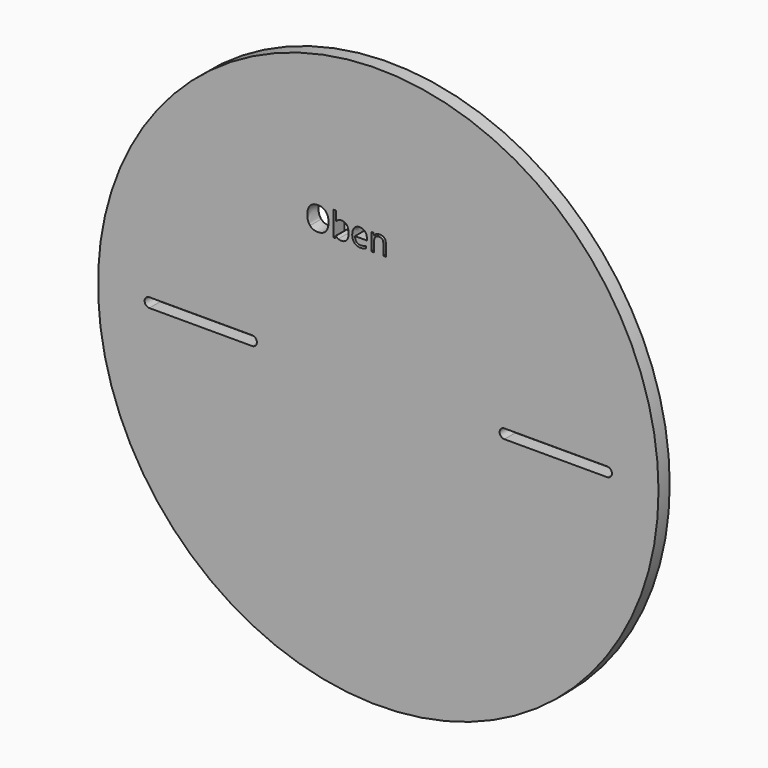
from build123d import *

# Parameters (mm, degrees)
F0_R     = 300.0001975894
F1_DEPTH = 15


with BuildPart() as f1:
    # F0 (on Front) → F1 (new body)
    with BuildSketch(Plane.XZ):
        Circle(F0_R)
        with BuildLine():
            ThreePointArc((-245.0001975894, -5.1), (-250.1001975894, 0), (-245.0001975894, 5.1))
            Line((-245.0001975894, 5.1), (-135, 5.1))
            ThreePointArc((-135, 5.1), (-129.9, 0), (-135, -5.1))
            Line((-135, -5.1), (-245.0001975894, -5.1))
        make_face(mode=Mode.SUBTRACT)
        with BuildLine():
            ThreePointArc((135.0291466713, -5.1012321273), (129.9, -0.0303787986), (134.9708533287, 5.0987678727))
            Line((134.9708533287, 5.0987678727), (245.0001975894, 5.0987678727))
            ThreePointArc((245.0001975894, 5.0987678727), (250.1001975894, -0.0012321273), (245.0001975894, -5.1012321273))
            Line((245.0001975894, -5.1012321273), (135.0291466713, -5.1012321273))
        make_face(mode=Mode.SUBTRACT)
        with BuildLine():
            add(Edge.make_bspline(
                [(-56.2059473305, 147.280047389), (-53.2054559961, 143.8888953384), (-53.2054559961, 137.9204677295)],
                knots=[0, 0, 0, 1, 1, 1], degree=2))
            add(Edge.make_bspline(
                [(-53.2054559961, 137.9204677295), (-53.2054559961, 131.9683176504), (-56.216799017, 128.5581751484)],
                knots=[0, 0, 0, 1, 1, 1], degree=2))
            add(Edge.make_bspline(
                [(-56.216799017, 128.5581751484), (-59.2281420379, 125.1480326464), (-64.5834493561, 125.1480326464)],
                knots=[0, 0, 0, 1, 1, 1], degree=2))
            add(Edge.make_bspline(
                [(-64.5834493561, 125.1480326464), (-70.0581252264, 125.1480326464), (-73.034200266, 128.4984908723)],
                knots=[0, 0, 0, 1, 1, 1], degree=2))
            add(Edge.make_bspline(
                [(-73.034200266, 128.4984908723), (-76.0102753055, 131.8489490982), (-76.0102753055, 137.9530227892)],
                knots=[0, 0, 0, 1, 1, 1], degree=2))
            add(Edge.make_bspline(
                [(-76.0102753055, 137.9530227892), (-76.0102753055, 144.0082638906), (-73.0260615011, 147.339731665)],
                knots=[0, 0, 0, 1, 1, 1], degree=2))
            add(Edge.make_bspline(
                [(-73.0260615011, 147.339731665), (-70.0418476966, 150.6711994395), (-64.5508942964, 150.6711994395)],
                knots=[0, 0, 0, 1, 1, 1], degree=2))
            add(Edge.make_bspline(
                [(-64.5508942964, 150.6711994395), (-59.2064386648, 150.6711994395), (-56.2059473305, 147.280047389)],
                knots=[0, 0, 0, 1, 1, 1], degree=2))
        make_face(mode=Mode.SUBTRACT)
        with BuildLine():
            add(Edge.make_bspline(
                [(-45.2891506494, 141.5991894739), (-43.3249953817, 144.3772212337), (-39.4563691225, 144.3772212337)],
                knots=[0, 0, 0, 1, 1, 1], degree=2))
            add(Edge.make_bspline(
                [(-39.4563691225, 144.3772212337), (-35.7939249079, 144.3772212337), (-33.7673724425, 141.8759074812)],
                knots=[0, 0, 0, 1, 1, 1], degree=2))
            add(Edge.make_bspline(
                [(-33.7673724425, 141.8759074812), (-31.7408199771, 139.3745937288), (-31.7408199771, 134.800607843)],
                knots=[0, 0, 0, 1, 1, 1], degree=2))
            add(Edge.make_bspline(
                [(-31.7408199771, 134.800607843), (-31.7408199771, 130.221196114), (-33.7836499724, 127.6846143802)],
                knots=[0, 0, 0, 1, 1, 1], degree=2))
            add(Edge.make_bspline(
                [(-33.7836499724, 127.6846143802), (-35.8264799676, 125.1480326464), (-39.4563691225, 125.1480326464)],
                knots=[0, 0, 0, 1, 1, 1], degree=2))
            add(Edge.make_bspline(
                [(-39.4563691225, 125.1480326464), (-41.2740266216, 125.1480326464), (-42.7742722887, 125.8181242916)],
                knots=[0, 0, 0, 1, 1, 1], degree=2))
            add(Edge.make_bspline(
                [(-42.7742722887, 125.8181242916), (-44.2745179559, 126.4882159368), (-45.2891506494, 127.8826576599)],
                knots=[0, 0, 0, 1, 1, 1], degree=2))
            Line((-45.2891506494, 127.8826576599), (-45.4953326941, 127.8826576599))
            Line((-45.4953326941, 127.8826576599), (-46.0867496117, 125.4898607731))
            Line((-46.0867496117, 125.4898607731), (-48.1051633122, 125.4898607731))
            Line((-48.1051633122, 125.4898607731), (-48.1051633122, 151.8757366478))
            Line((-48.1051633122, 151.8757366478), (-45.2891506494, 151.8757366478))
            Line((-45.2891506494, 151.8757366478), (-45.2891506494, 145.4623898899))
            add(Edge.make_bspline(
                [(-45.2891506494, 145.4623898899), (-45.2891506494, 143.3083301074), (-45.4247967314, 141.5991894739)],
                knots=[0, 0, 0, 1, 1, 1], degree=2))
            Line((-45.4247967314, 141.5991894739), (-45.2891506494, 141.5991894739))
        make_face(mode=Mode.SUBTRACT)
        with BuildLine():
            add(Edge.make_bspline(
                [(-15.761711515, 125.430176497), (-17.0910431189, 125.1480326464), (-18.9738107373, 125.1480326464)],
                knots=[0, 0, 0, 1, 1, 1], degree=2))
            add(Edge.make_bspline(
                [(-18.9738107373, 125.1480326464), (-23.0920257875, 125.1480326464), (-25.4766839094, 127.6601980854)],
                knots=[0, 0, 0, 1, 1, 1], degree=2))
            add(Edge.make_bspline(
                [(-25.4766839094, 127.6601980854), (-27.8613420313, 130.1723635245), (-27.8613420313, 134.626980858)],
                knots=[0, 0, 0, 1, 1, 1], degree=2))
            add(Edge.make_bspline(
                [(-27.8613420313, 134.626980858), (-27.8613420313, 139.1250049378), (-25.6475979727, 141.7701035373)],
                knots=[0, 0, 0, 1, 1, 1], degree=2))
            add(Edge.make_bspline(
                [(-25.6475979727, 141.7701035373), (-23.4338539142, 144.4152021367), (-19.7008737369, 144.4152021367)],
                knots=[0, 0, 0, 1, 1, 1], degree=2))
            add(Edge.make_bspline(
                [(-19.7008737369, 144.4152021367), (-16.2120565074, 144.4152021367), (-14.177365277, 142.1173575072)],
                knots=[0, 0, 0, 1, 1, 1], degree=2))
            add(Edge.make_bspline(
                [(-14.177365277, 142.1173575072), (-12.1426740467, 139.8195128778), (-12.1426740467, 136.0539776409)],
                knots=[0, 0, 0, 1, 1, 1], degree=2))
            Line((-12.1426740467, 136.0539776409), (-12.1426740467, 134.2743010448))
            Line((-12.1426740467, 134.2743010448), (-24.9422383462, 134.2743010448))
            add(Edge.make_bspline(
                [(-24.9422383462, 134.2743010448), (-24.8554248537, 131.0025175464), (-23.2873561456, 129.3069415212)],
                knots=[0, 0, 0, 1, 1, 1], degree=2))
            add(Edge.make_bspline(
                [(-23.2873561456, 129.3069415212), (-21.7192874374, 127.6113654959), (-18.870719715, 127.6113654959)],
                knots=[0, 0, 0, 1, 1, 1], degree=2))
            add(Edge.make_bspline(
                [(-18.870719715, 127.6113654959), (-15.8702283807, 127.6113654959), (-12.940273009, 128.8647352938)],
                knots=[0, 0, 0, 1, 1, 1], degree=2))
            Line((-12.940273009, 128.8647352938), (-12.940273009, 126.3525698547))
            add(Edge.make_bspline(
                [(-12.940273009, 126.3525698547), (-14.4323799112, 125.7123203476), (-15.761711515, 125.430176497)],
                knots=[0, 0, 0, 1, 1, 1], degree=2))
        make_face(mode=Mode.SUBTRACT)
        with BuildLine():
            Line((8.1933865699, 125.4898607731), (5.3773739071, 125.4898607731))
            Line((5.3773739071, 125.4898607731), (5.3773739071, 137.5135294834))
            add(Edge.make_bspline(
                [(5.3773739071, 137.5135294834), (5.3773739071, 139.7815319748), (4.3437507621, 140.9019686123)],
                knots=[0, 0, 0, 1, 1, 1], degree=2))
            add(Edge.make_bspline(
                [(4.3437507621, 140.9019686123), (3.3101276171, 142.0224052498), (1.1018094018, 142.0224052498)],
                knots=[0, 0, 0, 1, 1, 1], degree=2))
            add(Edge.make_bspline(
                [(1.1018094018, 142.0224052498), (-1.81186844, 142.0224052498), (-3.1683292602, 140.4461977767)],
                knots=[0, 0, 0, 1, 1, 1], degree=2))
            add(Edge.make_bspline(
                [(-3.1683292602, 140.4461977767), (-4.5247900804, 138.8699903036), (-4.5247900804, 135.2401011488)],
                knots=[0, 0, 0, 1, 1, 1], degree=2))
            Line((-4.5247900804, 135.2401011488), (-4.5247900804, 125.4898607731))
            Line((-4.5247900804, 125.4898607731), (-7.3408027432, 125.4898607731))
            Line((-7.3408027432, 125.4898607731), (-7.3408027432, 144.07337401))
            Line((-7.3408027432, 144.07337401), (-5.0510968787, 144.07337401))
            Line((-5.0510968787, 144.07337401), (-4.5953260431, 141.5286535113))
            Line((-4.5953260431, 141.5286535113), (-4.459679961, 141.5286535113))
            add(Edge.make_bspline(
                [(-4.459679961, 141.5286535113), (-3.5915450361, 142.9013918613), (-2.0316150929, 143.658296999)],
                knots=[0, 0, 0, 1, 1, 1], degree=2))
            add(Edge.make_bspline(
                [(-2.0316150929, 143.658296999), (-0.4716851496, 144.4152021367), (1.4436375285, 144.4152021367)],
                knots=[0, 0, 0, 1, 1, 1], degree=2))
            add(Edge.make_bspline(
                [(1.4436375285, 144.4152021367), (4.8022345194, 144.4152021367), (6.4978105446, 142.7955879173)],
                knots=[0, 0, 0, 1, 1, 1], degree=2))
            add(Edge.make_bspline(
                [(6.4978105446, 142.7955879173), (8.1933865699, 141.175973698), (8.1933865699, 137.6111946625)],
                knots=[0, 0, 0, 1, 1, 1], degree=2))
            Line((8.1933865699, 137.6111946625), (8.1933865699, 125.4898607731))
        make_face(mode=Mode.SUBTRACT)
    extrude(amount=F1_DEPTH)


solid = f1.part
